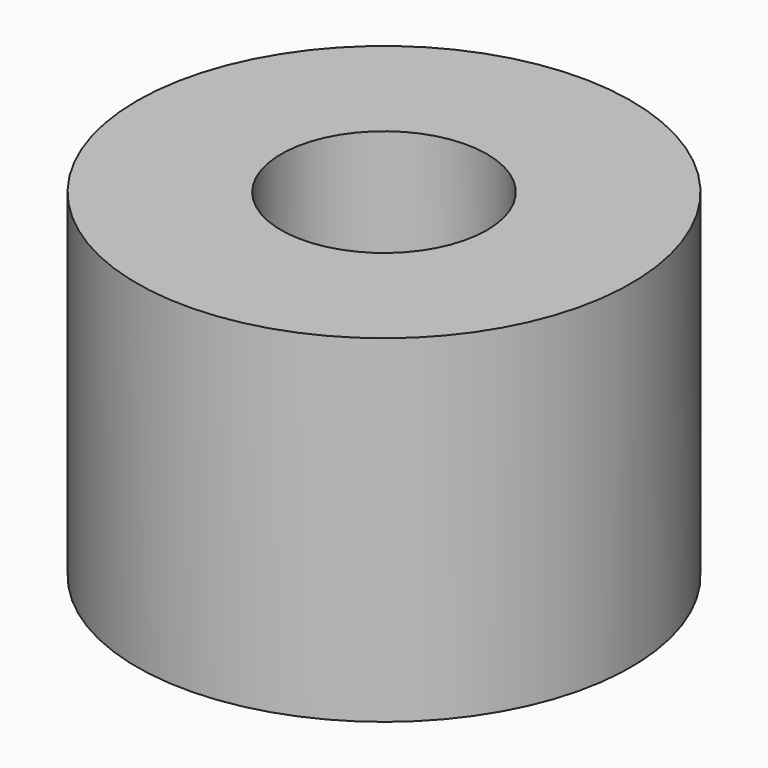
from build123d import *

# Parameters (mm, degrees)
CYLINDER079_R          = 1.25
CYLINDER079_DEPTH      = 5
CYLINDER078_R          = 3
CYLINDER078_DEPTH      = 4.1
CUT040_PLACEMENT_ANGLE = 90


with BuildPart() as b_w017:
    # Cylinder079 → Cylinder079 (new body)
    with BuildSketch(Plane(origin=(2, 6, 26), x_dir=(0, 0, 1), z_dir=(-1, 0, 0))):
        Circle(CYLINDER079_R)
    extrude(amount=CYLINDER079_DEPTH)


with BuildPart() as obj1:
    # Cylinder078 → Cylinder078 (new body)
    with BuildSketch(Plane(origin=(-1, 6, 26), x_dir=(0, 0, -1), z_dir=(1, 0, 0))):
        Circle(CYLINDER078_R)
    extrude(amount=CYLINDER078_DEPTH)

    # Cut040: cut B_W017
    add(b_w017.part, mode=Mode.SUBTRACT)


with BuildPart() as obj1_1:
    # Cut040 placement: moved
    add(obj1.part.moved(Location((-18, 29.5, 3))).rotate(Axis((-18, 29.5, 3), (0, 1, 0)), CUT040_PLACEMENT_ANGLE))


solid = obj1_1.part
